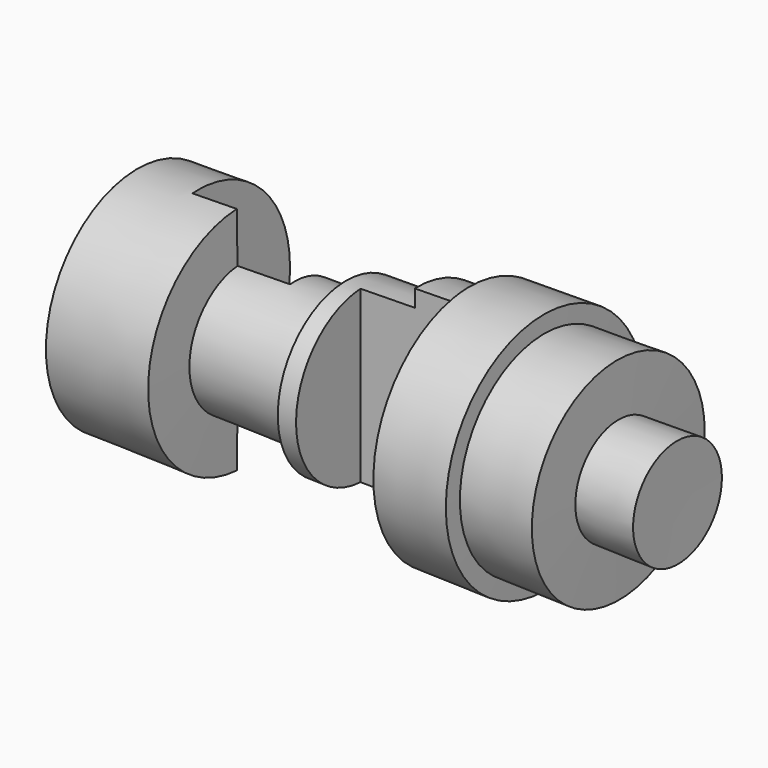
from build123d import *

# Parameters (mm, degrees)
F2_W     = 37.1675528586
F2_H     = 166.4876639843
F3_DEPTH = 82.2
F4_W     = 40.7858882099
F4_H     = 148.783929646
F5_DEPTH = 98.6


with BuildPart() as f1:
    # F0 (on Top) → F1 (revolve)
    with BuildSketch(Plane.XY):
        Polygon((-19.6189273595, 46.4221443981), (-59.5299630911, 46.4221443981), (-59.5299630911, 3.069964936), (147.5333869457, 0), (147.9226052761, 20.7655709237), (125.3759115934, 20.7655709237), (125.3759115934, 40.7577455044), (97.2828418016, 40.7577455044), (97.2828418016, 47.2125634551), (68.3147385716, 47.2125634551), (68.3147385716, 40.7577455044), (48.1183305383, 40.7577455044), (48.1183305383, 34.2763438821), (20.6776820123, 34.2763438821), (20.6776820123, 27.4582132697), (-19.6189273595, 27.4582132697), align=None)
    revolve(axis=Axis((44.0017119273, 1.534982468, 0), (0.9998901098, -0.0148245818, 0)))

    # F2 (on Front) → F3 (cut)
    with BuildSketch(Plane.XZ):
        with Locations((-18.5837764293, 5.1509216428)):
            Rectangle(F2_W, F2_H)
    extrude(amount=-F3_DEPTH, mode=Mode.SUBTRACT)

    # F4 (on Front) → F5 (cut)
    with BuildSketch(Plane.XZ):
        with Locations((47.2418097779, -5.5372081697)):
            Rectangle(F4_W, F4_H)
    extrude(amount=F5_DEPTH, mode=Mode.SUBTRACT)


solid = f1.part
